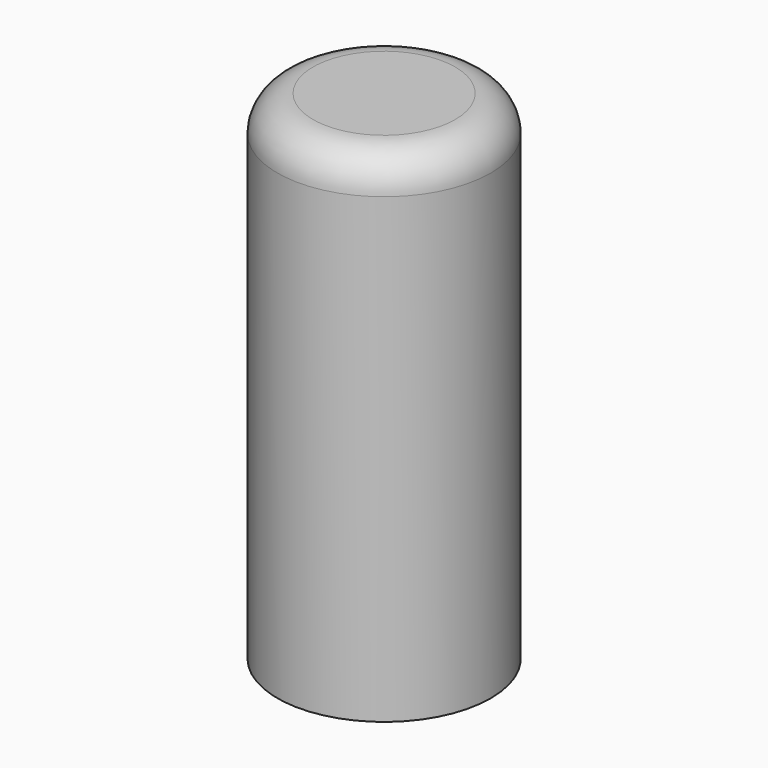
from build123d import *

# Parameters (mm, degrees)
CYLINDER009_R     = 1.5
CYLINDER009_DEPTH = 5
CYLINDER006_R     = 3
CYLINDER006_DEPTH = 14
FILLET_R          = 1


with BuildPart() as cylinder009:
    # Cylinder009 → Cylinder009 (new body)
    with BuildSketch(Plane.XY.offset(150)):
        Circle(CYLINDER009_R)
    extrude(amount=CYLINDER009_DEPTH)


with BuildPart() as cut005:
    # Cylinder006 → Cylinder006 (new body)
    with BuildSketch(Plane.XY.offset(150)):
        Circle(CYLINDER006_R)
    extrude(amount=CYLINDER006_DEPTH)

    # Fillet
    fillet_edges = [cut005.edges().sort_by_distance(p)[0] for p in [
        (-3, 0, 164),
    ]]
    fillet(fillet_edges, radius=FILLET_R)

    # Cut005: cut Cylinder009
    add(cylinder009.part, mode=Mode.SUBTRACT)


solid = cut005.part
